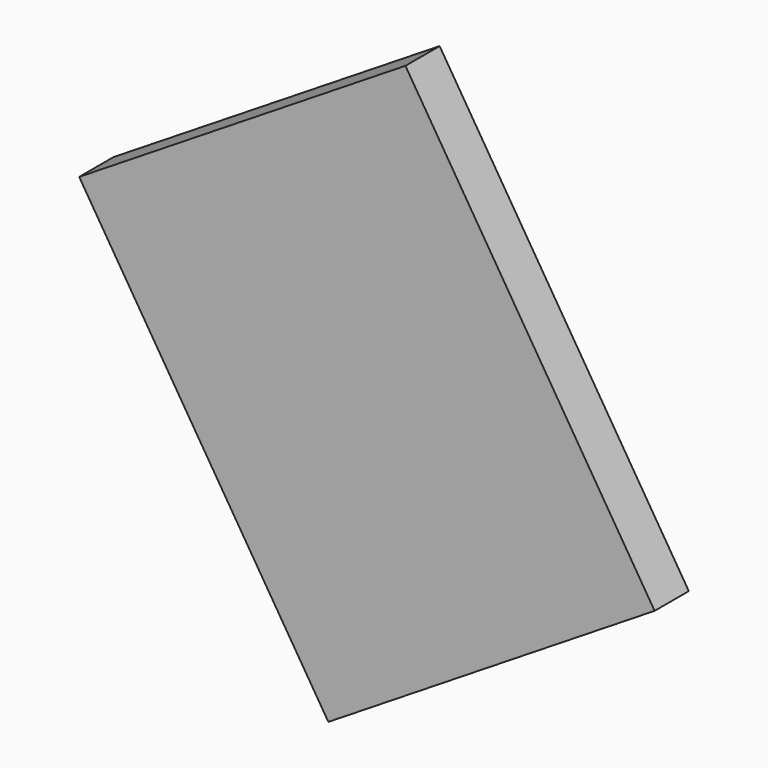
from build123d import *

# Parameters (mm, degrees)
CYLINDER069_R          = 0.5
CYLINDER069_DEPTH      = 0.01
BOX154_W               = 4.5
BOX154_H               = 5.5
BOX154_DEPTH           = 0.5
CUT073_ROLL_ANGLE      = 90
CUT073_PITCH_ANGLE     = 32
CUT073_PLACEMENT_ANGLE = -180


with BuildPart() as cylinder069:
    # Cylinder069 → Cylinder069 (new body)
    with BuildSketch(Plane(origin=(1, 4.5, 0.49), x_dir=(1, 0, 0), z_dir=(0, 0, 1))):
        Circle(CYLINDER069_R)
    extrude(amount=CYLINDER069_DEPTH)


with BuildPart() as obj1:
    # Box154 → Box154 (new body)
    with BuildSketch(Plane.XY):
        with Locations((2.25, 2.75)):
            Rectangle(BOX154_W, BOX154_H)
    extrude(amount=BOX154_DEPTH)

    # Cut073: cut Cylinder069
    add(cylinder069.part, mode=Mode.SUBTRACT)


with BuildPart() as obj1_1:
    # Cut073 roll: moved
    add(obj1.part.rotate(Axis((0, 0, 0), (1, 0, 0)), CUT073_ROLL_ANGLE))


with BuildPart() as obj1_2:
    # Cut073 pitch: moved
    add(obj1_1.part.rotate(Axis((0, 0, 0), (0, 1, 0)), CUT073_PITCH_ANGLE))


with BuildPart() as obj1_3:
    # Cut073 placement: moved
    add(obj1_2.part.moved(Location((-2.69879, 3.34, 34.677519))).rotate(Axis((-2.69879, 3.34, 34.677519), (0, 0, 1)), CUT073_PLACEMENT_ANGLE))


solid = obj1_3.part
